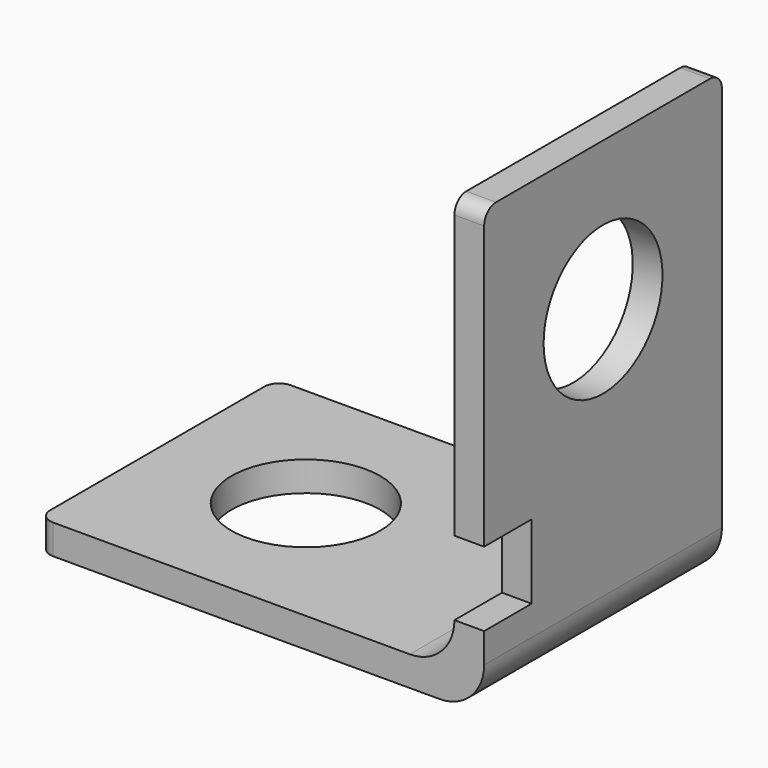
from build123d import *

# Parameters (mm, degrees)
F1_DEPTH = 20
F2_R     = 5
F3_DEPTH = 2.001
F4_R     = 5
F4_W     = 4
F4_H     = 5
F5_DEPTH = 2.001
F6_R     = 1


with BuildPart() as f1:
    # F0 (on Front) → F1 (new body)
    with BuildSketch(Plane.XZ):
        with BuildLine():
            Line((0, 2), (0, 0))
            Line((0, 0), (27, 0))
            ThreePointArc((27, 0), (29.12132, 0.87868), (30, 3))
            Line((30, 3), (30, 30))
            Line((30, 30), (28, 30))
            Line((28, 30), (28, 5))
            ThreePointArc((28, 5), (27.12132, 2.87868), (25, 2))
            Line((25, 2), (0, 2))
        make_face()
    extrude(amount=F1_DEPTH)

    # F2 (on face) → F3 (cut, through all)
    with BuildSketch(Plane.XY.offset(2)):
        with Locations((10, -10)):
            Circle(F2_R)
    extrude(amount=-F3_DEPTH, mode=Mode.SUBTRACT)

    # F4 (on face) → F5 (cut, through all)
    with BuildSketch(Plane(origin=(28, 0, 0), x_dir=(0, -1, 0), z_dir=(-1, 0, 0))):
        with Locations((10, 20)):
            Circle(F4_R)
        with Locations((18, 7.5)):
            Rectangle(F4_W, F4_H)
    extrude(amount=-F5_DEPTH, mode=Mode.SUBTRACT)

    # F6
    f6_edges = [f1.edges().sort_by_distance(p)[0] for p in [
        (0, -20, 1),
        (29, -20, 30),
        (29, 0, 30),
        (0, 0, 1),
    ]]
    fillet(f6_edges, radius=F6_R)


solid = f1.part
